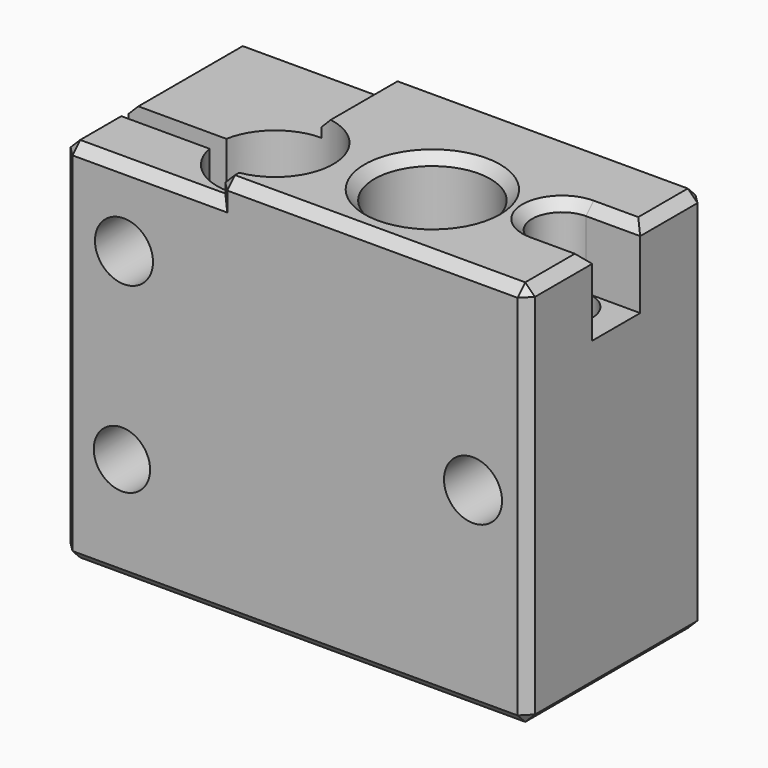
from build123d import *

# Parameters (mm, degrees)
F0_W      = 24
F0_H      = 11.5
F1_DEPTH  = 20
F2_R      = 3
F2_R_2    = 1.55
F3_DEPTH  = 20.001
F4_R      = 1.5
F4_R_2    = 1.4554355897
F4_R_3    = 1.5000002072
F5_DEPTH  = 11.501
F7_DEPTH  = 4
F9_DEPTH  = 1
F10_SIZE  = 0.5
F11_W     = 14.3343711684
F11_H     = 1.1
F12_DEPTH = 19.0010001


with BuildPart() as f1:
    # F0 (on Top) → F1 (new body)
    with BuildSketch(Plane.XY):
        with Locations((12, 5.75)):
            Rectangle(F0_W, F0_H)
    extrude(amount=F1_DEPTH)

    # F2 (on face) → F3 (cut, through all)
    with BuildSketch(Plane.XY.offset(20)):
        with Locations((8, 3.723813377)):
            Circle(F2_R)
        with Locations((15.5, 4.5)):
            Circle(F2_R)
        with Locations((21.2, 5.75)):
            Circle(F2_R_2)
    extrude(amount=-F3_DEPTH, mode=Mode.SUBTRACT)

    # F4 (on face) → F5 (cut, through all)
    with BuildSketch(Plane.XZ):
        with Locations((21.2, 10)):
            Circle(F4_R)
        with Locations((3.0564678513, 5.5)):
            Circle(F4_R_2)
        with Locations((3.1612319104, 15)):
            Circle(F4_R_3)
    extrude(amount=-F5_DEPTH, mode=Mode.SUBTRACT)

    # F6 (on face) → F7 (cut)
    with BuildSketch(Plane.XY.offset(20)):
        with BuildLine():
            Line((24, 7.3), (21.2, 7.3))
            ThreePointArc((21.2, 7.3), (22.2960155108, 6.8460155108), (22.75, 5.75))
            ThreePointArc((22.75, 5.75), (22.2960155108, 4.6539844892), (21.2, 4.2))
            Line((21.2, 4.2), (24, 4.2))
            Line((24, 4.2), (24, 7.3))
        make_face()
    extrude(amount=-F7_DEPTH, mode=Mode.SUBTRACT)

    # F8 (on face) → F9 (cut)
    with BuildSketch(Plane.XY.offset(20)):
        with BuildLine():
            Line((8, 6.723813377), (8, 11.5))
            Line((8, 11.5), (0, 11.5))
            Line((0, 11.5), (0, 0))
            Line((0, 0), (8, 0))
            Line((8, 0), (8, 0.723813377))
            ThreePointArc((8, 0.723813377), (5, 3.723813377), (8, 6.723813377))
        make_face()
    extrude(amount=-F9_DEPTH, mode=Mode.SUBTRACT)

    # F10
    f10_edges = [f1.edges().sort_by_distance(p)[0] for p in [
        (4, 0, 19),
        (0, 5.75, 19),
        (0, 0, 9.5),
        (0, 11.5, 9.5),
        (8, 9.111907, 20),
        (8, 0.361907, 20),
        (8, 0, 19.5),
        (16, 0, 20),
        (24, 2.1, 20),
        (22.6, 4.2, 20),
        (24, 9.4, 20),
        (16, 11.5, 20),
        (24, 0, 10),
        (0, 5.75, 0),
        (12, 0, 0),
        (24, 5.75, 0),
        (12, 11.5, 0),
        (24, 11.5, 10),
        (4, 11.5, 19),
        (8, 11.5, 19.5),
        (12.5, 4.5, 20),
    ]]
    chamfer(f10_edges, length=F10_SIZE)

    # F11 (on face) → F12 (cut, through all)
    with BuildSketch(Plane.XY.offset(19)):
        with Locations((3.4663419938, 3.7068520686)):
            Rectangle(F11_W, F11_H)
    extrude(amount=-F12_DEPTH, mode=Mode.SUBTRACT)


solid = f1.part
